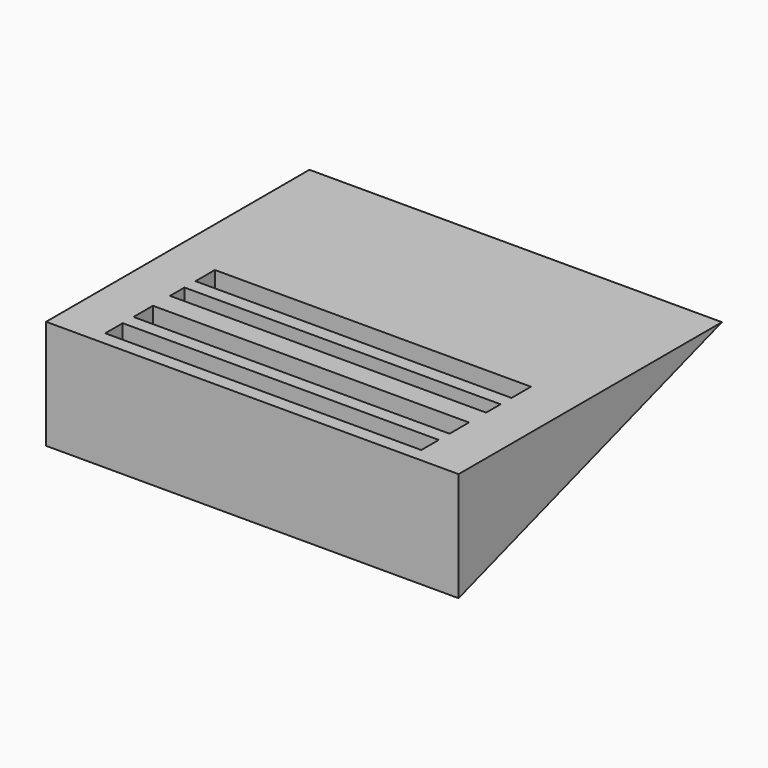
from build123d import *

# Parameters (mm, degrees)
F2_DEPTH = 74.422
F0_W     = 114.037246
F0_H     = 8.752351
F3_DEPTH = 25.4
F0_W_2   = 114.037238
F0_H_2   = 6.529795
F4_DEPTH = 25.4
F0_W_3   = 114.03723
F0_H_3   = 8.757952
F5_DEPTH = 25.4
F0_H_4   = 7.899019
F6_DEPTH = 25.4


with BuildPart() as f2:
    # F1 (on Right) → F2 (new body, symmetric)
    with BuildSketch(Plane.YZ):
        Polygon((42.566895, 0), (-76.200001, 0), (-76.200001, -39.413795), align=None)
    extrude(amount=F2_DEPTH, both=True)

    # F0 (on Top) → F3 (cut)
    with BuildSketch(Plane.XY):
        with Locations((0, -26.185142)):
            Rectangle(F0_W, F0_H)
    extrude(amount=-F3_DEPTH, mode=Mode.SUBTRACT)

    # F0 (on Top) → F4 (cut)
    with BuildSketch(Plane.XY):
        with Locations((0, -38.776483)):
            Rectangle(F0_W_2, F0_H_2)
    extrude(amount=-F4_DEPTH, mode=Mode.SUBTRACT)

    # F0 (on Top) → F5 (cut)
    with BuildSketch(Plane.XY):
        with Locations((0, -54.135197)):
            Rectangle(F0_W_3, F0_H_3)
    extrude(amount=-F5_DEPTH, mode=Mode.SUBTRACT)

    # F0 (on Top) → F6 (cut)
    with BuildSketch(Plane.XY):
        with Locations((0, -67.32359)):
            Rectangle(F0_W, F0_H_4)
    extrude(amount=-F6_DEPTH, mode=Mode.SUBTRACT)


solid = f2.part
